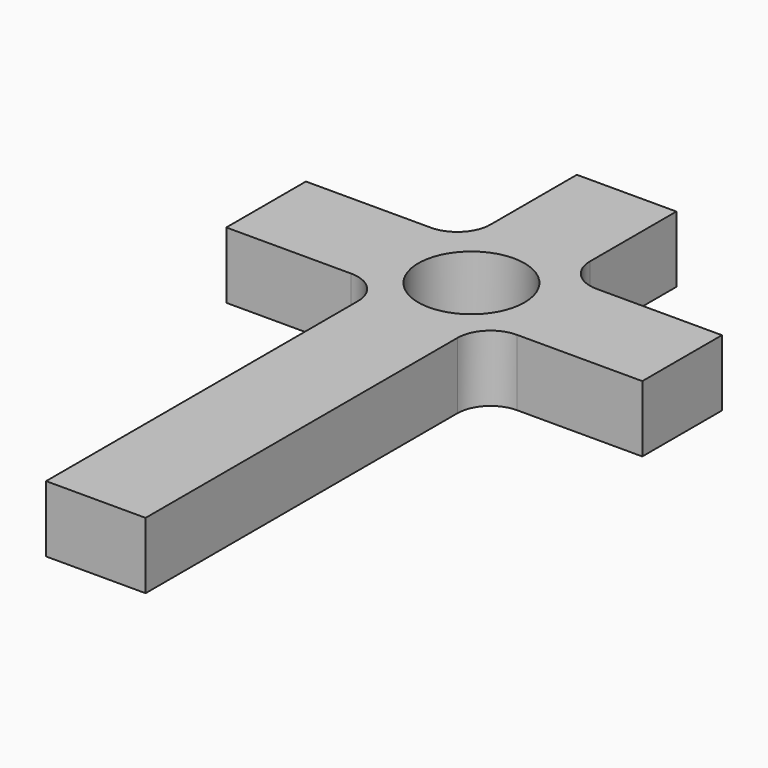
from build123d import *

# Parameters (mm, degrees)
F0_R     = 1.601185
F1_DEPTH = 2
F2_R     = 1


with BuildPart() as f1:
    # F0 (on Top) → F1 (new body)
    with BuildSketch(Plane.XY):
        Polygon((-56.180905, 12.747834), (-56.180905, 0), (-53.180905, 0), (-53.180905, 12.747834), (-48.405705, 12.747834), (-48.405705, 15.747834), (-53.180905, 15.747834), (-53.180905, 20), (-56.180905, 20), (-56.180905, 15.747834), (-60.946576, 15.747834), (-60.946576, 12.747834), align=None)
        with Locations((-54.676141, 14.146648)):
            Circle(F0_R, mode=Mode.SUBTRACT)
    extrude(amount=F1_DEPTH)

    # F2
    f2_edges = [f1.edges().sort_by_distance(p)[0] for p in [
        (-56.180905, 15.747834, 1),
        (-53.180905, 15.747834, 1),
        (-56.180905, 12.747834, 1),
        (-53.180905, 12.747834, 1),
    ]]
    fillet(f2_edges, radius=F2_R)


solid = f1.part
